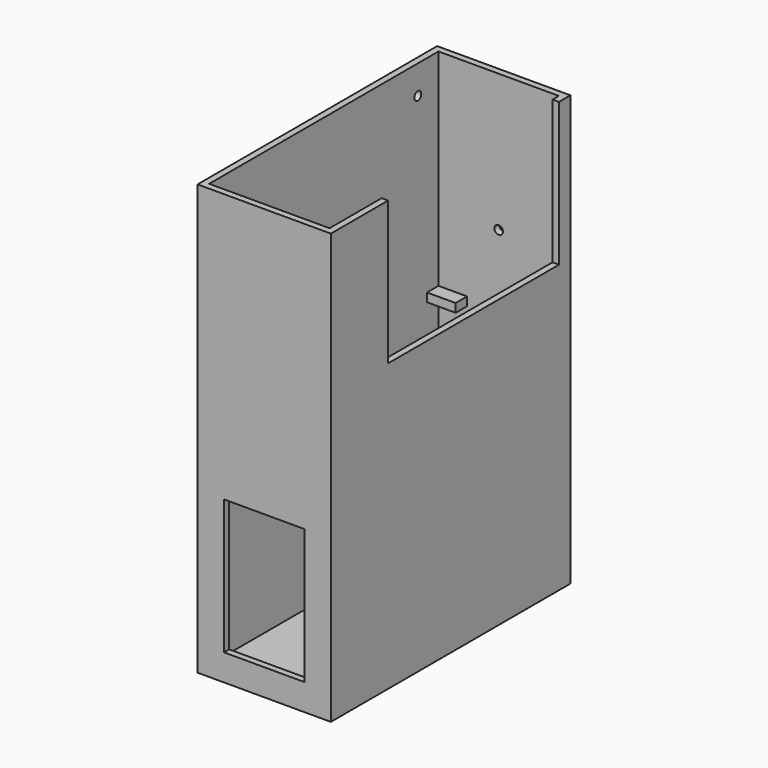
from build123d import *

# Parameters (mm, degrees)
F0_W      = 46.5
F0_H      = 150
F1_DEPTH  = 104.5
F2_W      = 42
F2_H      = 100
F3_DEPTH  = 147.75
F4_W      = 74.5
F4_H      = 50
F5_DEPTH  = 2.25
F6_R      = 1.5
F7_DEPTH  = 2.25
F8_R      = 1.5
F9_DEPTH  = 2.25
F10_W     = 10
F10_H     = 3
F11_DEPTH = 5
F12_W     = 10
F12_H     = 3
F13_DEPTH = 5
F14_W     = 28
F14_H     = 47
F15_DEPTH = 2.25
F16_W     = 23
F16_H     = 17
F17_DEPTH = 2.25


with BuildPart() as f1:
    # F0 (on Front) → F1 (new body)
    with BuildSketch(Plane.XZ):
        with Locations((-23.25, -75)):
            Rectangle(F0_W, F0_H)
    extrude(amount=F1_DEPTH)

    # F2 (on face) → F3 (cut, through all)
    with BuildSketch(Plane.XY):
        with Locations((-23.25, -52.25)):
            Rectangle(F2_W, F2_H)
    extrude(amount=-F3_DEPTH, mode=Mode.SUBTRACT)

    # F4 (on face) → F5 (cut)
    with BuildSketch(Plane.YZ):
        with Locations((-42.25, -25)):
            Rectangle(F4_W, F4_H)
    extrude(amount=-F5_DEPTH, mode=Mode.SUBTRACT)

    # F6 (on face) → F7 (cut)
    with BuildSketch(Plane(origin=(-46.5, 0, 0), x_dir=(0, -1, 0), z_dir=(-1, 0, 0))):
        with Locations((11.25, -10)):
            Circle(F6_R)
        with Locations((93.25, -10)):
            Circle(F6_R)
    extrude(amount=-F7_DEPTH, mode=Mode.SUBTRACT)

    # F8 (on face) → F9 (cut)
    with BuildSketch(Plane(origin=(0, 0, 0), x_dir=(-1, 0, 0), z_dir=(0, 1, 0))):
        with Locations((23.25, -48)):
            Circle(F8_R)
    extrude(amount=-F9_DEPTH, mode=Mode.SUBTRACT)

    # F10 (on face) → F11 (join)
    with BuildSketch(Plane.XZ.offset(2.25)):
        with Locations((-39.25, -73.5)):
            Rectangle(F10_W, F10_H)
        with Locations((-7.25, -73.5)):
            Rectangle(F10_W, F10_H)
    extrude(amount=F11_DEPTH)

    # F12 (on face) → F13 (join)
    with BuildSketch(Plane(origin=(0, -102.25, 0), x_dir=(-1, 0, 0), z_dir=(0, 1, 0))):
        with Locations((39.25, -73.5)):
            Rectangle(F12_W, F12_H)
    extrude(amount=F13_DEPTH)

    # F14 (on face) → F15 (cut)
    with BuildSketch(Plane.XZ.offset(104.5)):
        with Locations((-23.25, -117.25)):
            Rectangle(F14_W, F14_H)
    extrude(amount=-F15_DEPTH, mode=Mode.SUBTRACT)

    # F16 (on face) → F17 (cut)
    with BuildSketch(Plane(origin=(0, 0, 0), x_dir=(-1, 0, 0), z_dir=(0, 1, 0))):
        with Locations((20.75, -132.25)):
            Rectangle(F16_W, F16_H)
    extrude(amount=-F17_DEPTH, mode=Mode.SUBTRACT)


solid = f1.part
